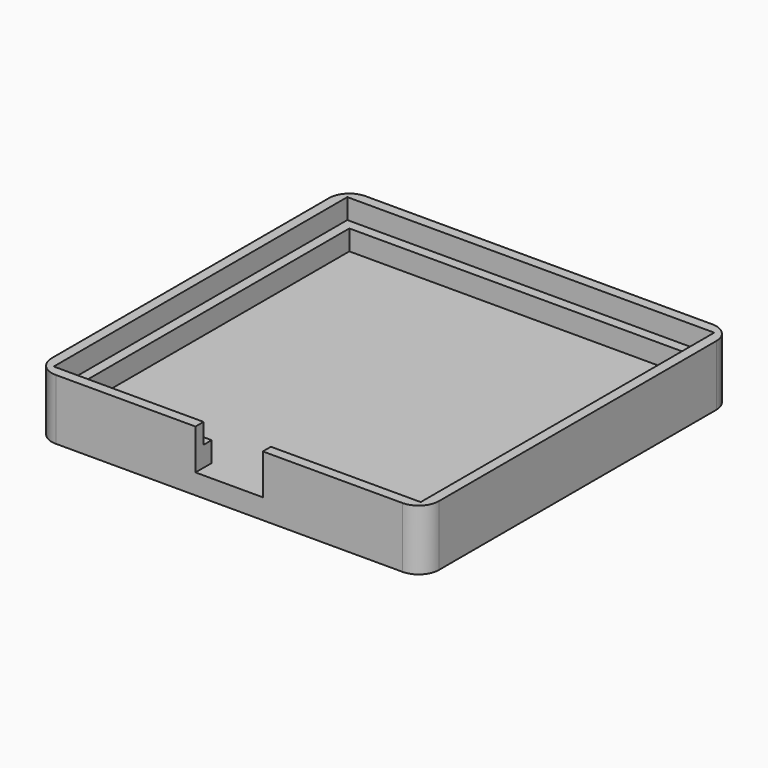
from build123d import *

# Parameters (mm, degrees)
SKETCH_W      = 57.5
SKETCH_H      = 57.5
PAD_DEPTH     = 3
SKETCH001_W   = 57.5
SKETCH001_H   = 57.5
SKETCH001_W_2 = 51.5
SKETCH001_H_2 = 51.5
PAD001_DEPTH  = 3
SKETCH002_W   = 57.5
SKETCH002_H   = 57.5
SKETCH002_W_2 = 54.5
SKETCH002_H_2 = 54.5
PAD002_DEPTH  = 3
SKETCH003_W   = 10
SKETCH003_H   = 6
POCKET_DEPTH  = 5
FILLET_R      = 3


with BuildPart() as part:
    # Sketch → Pad (new body)
    with BuildSketch(Plane.XY):
        Rectangle(SKETCH_W, SKETCH_H)
    extrude(amount=PAD_DEPTH)

    # Sketch001 (on Face6 of Pad) → Pad001 (join)
    with BuildSketch(Plane.XY.offset(3)):
        Rectangle(SKETCH001_W, SKETCH001_H)
        Rectangle(SKETCH001_W_2, SKETCH001_H_2, mode=Mode.SUBTRACT)
    extrude(amount=PAD001_DEPTH)

    # Sketch002 (on Face9 of Pad001) → Pad002 (join)
    with BuildSketch(Plane.XY.offset(6)):
        Rectangle(SKETCH002_W, SKETCH002_H)
        Rectangle(SKETCH002_W_2, SKETCH002_H_2, mode=Mode.SUBTRACT)
    extrude(amount=PAD002_DEPTH)

    # Sketch003 (on Face10 of Pad002) → Pocket (cut)
    with BuildSketch(Plane.XZ.offset(28.75)):
        with Locations((0, 6)):
            Rectangle(SKETCH003_W, SKETCH003_H)
    extrude(amount=-POCKET_DEPTH, mode=Mode.SUBTRACT)

    # Fillet
    fillet_edges = [part.edges().sort_by_distance(p)[0] for p in [
        (-28.75, -28.75, 7.5),
        (-28.75, -28.75, 4.5),
        (-28.75, -28.75, 1.5),
        (-28.75, 28.75, 7.5),
        (-28.75, 28.75, 4.5),
        (-28.75, 28.75, 1.5),
        (28.75, -28.75, 7.5),
        (28.75, -28.75, 4.5),
        (28.75, -28.75, 1.5),
        (28.75, 28.75, 1.5),
        (28.75, 28.75, 4.5),
        (28.75, 28.75, 7.5),
    ]]
    fillet(fillet_edges, radius=FILLET_R)


solid = part.part
